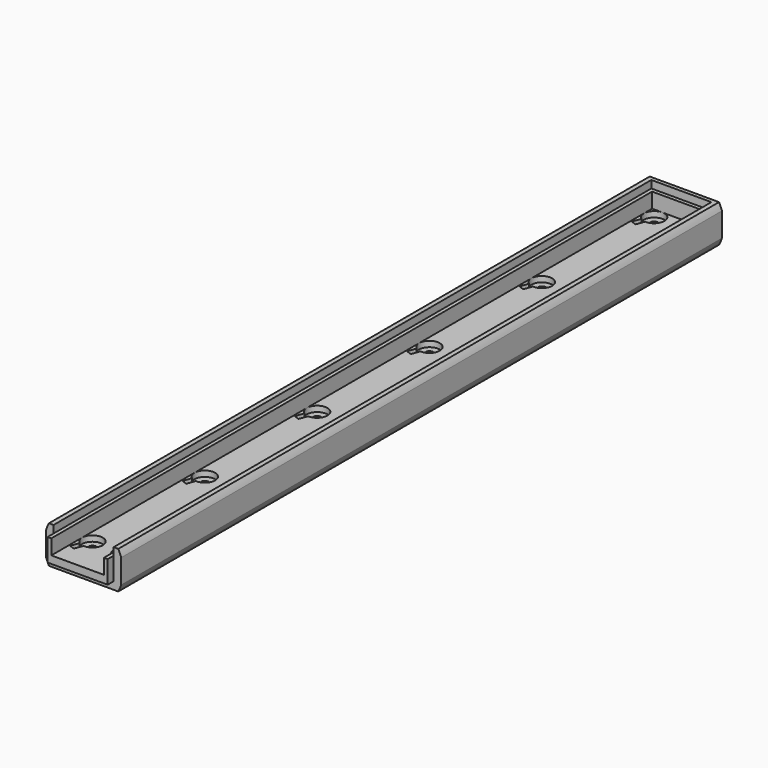
from build123d import *

# Parameters (mm, degrees)
PAD_DEPTH           = 200
SKETCH001_W         = 16
SKETCH001_H         = 199
POCKET_DEPTH        = 2
SKETCH002_W         = 14
SKETCH002_H         = 198
POCKET001_DEPTH     = 4
SKETCH003_W         = 16
SKETCH003_H         = 6
PAD001_DEPTH        = 2
SKETCH004_W         = 14
SKETCH004_H         = 2
POCKET002_DEPTH     = 4
POCKET003_DEPTH     = 1.5
SKETCH006_R         = 1
POCKET004_DEPTH     = 3
LINEARPATTERN_COUNT = 6
LINEARPATTERN_PITCH = 37.4


with BuildPart() as part:
    # Sketch → Pad (new body)
    with BuildSketch(Plane.XZ):
        with BuildLine():
            ThreePointArc((-9.233093, 5), (-9.658497, 4.11867), (-10, 3.201562))
            Line((-10, 3.201562), (-10, -3.201562))
            ThreePointArc((-10, -3.201562), (-9.658497, -4.11867), (-9.233093, -5))
            Line((-9.233093, -5), (9.233093, -5))
            ThreePointArc((9.233093, -5), (9.658497, -4.11867), (10, -3.201562))
            Line((10, 3.201562), (10, -3.201562))
            ThreePointArc((10, 3.201562), (9.658497, 4.11867), (9.233093, 5))
            Line((-9.233093, 5), (9.233093, 5))
        make_face()
    extrude(amount=PAD_DEPTH)

    # Sketch001 (on Face2 of Pad) → Pocket (cut)
    with BuildSketch(Plane(origin=(0, 0, 5), x_dir=(-1, 0, 0), z_dir=(0, 0, 1))):
        with Locations((0, 100.5)):
            Rectangle(SKETCH001_W, SKETCH001_H)
    extrude(amount=-POCKET_DEPTH, mode=Mode.SUBTRACT)

    # Sketch002 (on Face14 of Pocket) → Pocket001 (cut)
    with BuildSketch(Plane(origin=(0, 0, 3), x_dir=(-1, 0, 0), z_dir=(0, 0, 1))):
        with Locations((0, 101)):
            Rectangle(SKETCH002_W, SKETCH002_H)
    extrude(amount=-POCKET001_DEPTH, mode=Mode.SUBTRACT)

    # Sketch003 (on Face5 of Pocket001) → Pad001 (join)
    with BuildSketch(Plane.XZ.offset(200)):
        Rectangle(SKETCH003_W, SKETCH003_H)
    extrude(amount=PAD001_DEPTH)

    # Sketch004 (on Face18 of Pad001) → Pocket002 (cut)
    with BuildSketch(Plane(origin=(0, 0, 3), x_dir=(-1, 0, 0), z_dir=(0, 0, 1))):
        with Locations((0, 201)):
            Rectangle(SKETCH004_W, SKETCH004_H)
    extrude(amount=-POCKET002_DEPTH, mode=Mode.SUBTRACT)

    # Sketch005 (on Face27 of Pocket002) → Pocket003 (cut)
    with BuildSketch(Plane(origin=(0, 0, -1), x_dir=(-1, 0, 0), z_dir=(0, 0, 1))):
        with BuildLine():
            ThreePointArc((-5.85967, 6.979678), (-3.309445, 2.165845), (-4.450131, 7.492708))
            Line((-5.255331, 9.704978), (-4.450131, 7.492708))
            Line((-6.66487, 9.191948), (-5.255331, 9.704978))
            Line((-5.85967, 6.979678), (-6.66487, 9.191948))
        make_face()
        with BuildLine():
            ThreePointArc((4.450131, 7.492708), (3.309445, 2.165845), (5.85967, 6.979678))
            Line((6.66487, 9.191948), (5.85967, 6.979678))
            Line((5.255331, 9.704978), (6.66487, 9.191948))
            Line((4.450131, 7.492708), (5.255331, 9.704978))
        make_face()
    pocket003 = extrude(amount=-POCKET003_DEPTH, mode=Mode.SUBTRACT)

    # Sketch006 (on Face39 of Pocket003) → Pocket004 (cut)
    with BuildSketch(Plane(origin=(0, 0, -2.5), x_dir=(-1, 0, 0), z_dir=(0, 0, 1))):
        with Locations((-4.25, 4.75)):
            Circle(SKETCH006_R)
        with Locations((4.25, 4.75)):
            Circle(SKETCH006_R)
    pocket004 = extrude(amount=-POCKET004_DEPTH, mode=Mode.SUBTRACT)

    # LinearPattern: Pocket003, Pocket004 ×6
    with Locations(*[(0, -i * LINEARPATTERN_PITCH, 0) for i in range(1, LINEARPATTERN_COUNT)]):
        add(pocket003, mode=Mode.SUBTRACT)
        add(pocket004, mode=Mode.SUBTRACT)


solid = part.part
